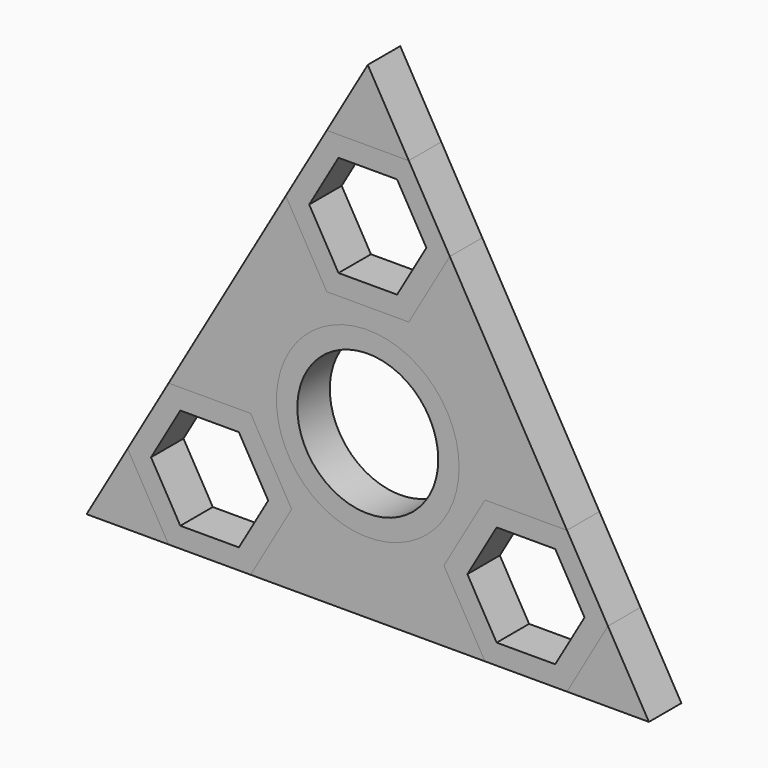
from build123d import *

# Parameters (mm, degrees)
F0_R     = 14.2875
F0_R_2   = 11.0236
F2_DEPTH = 6.35
F1_R     = 14.2875


with BuildPart() as f2:
    # F0 (on Front) → F2 (new body)
    with BuildSketch(Plane.XZ):
        Circle(F0_R)
        Circle(F0_R_2, mode=Mode.SUBTRACT)
    extrude(amount=F2_DEPTH)


with BuildPart() as f2b:
    # F0 (on Front) → F2, piece 2 (new body)
    with BuildSketch(Plane.XZ):
        Polygon((-6.4158048664, 17.4625), (6.4158048664, 17.4625), (12.8316097327, 28.575), (6.4158048664, 39.6875), (-6.4158048664, 39.6875), (-12.8316097327, 28.575), align=None)
        Polygon((9.1654355234, 28.575), (4.5827177617, 20.6375), (-4.5827177617, 20.6375), (-9.1654355234, 28.575), (-4.5827177617, 36.5125), (4.5827177617, 36.5125), align=None, mode=Mode.SUBTRACT)
    extrude(amount=F2_DEPTH)


with BuildPart() as f2c:
    # F0 (on Front) → F2, piece 3 (new body)
    with BuildSketch(Plane.XZ):
        Polygon((-18.3308710468, -3.175), (-31.1624807795, -3.175), (-37.5782856459, -14.2875), (-31.1624807795, -25.4), (-18.3308710468, -25.4), (-11.9150661804, -14.2875), align=None)
        Polygon((-29.3293936748, -6.35), (-20.1639581514, -6.35), (-15.5812403898, -14.2875), (-20.1639581514, -22.225), (-29.3293936748, -22.225), (-33.9121114365, -14.2875), align=None, mode=Mode.SUBTRACT)
    extrude(amount=F2_DEPTH)


with BuildPart() as f2d:
    # F0 (on Front) → F2, piece 4 (new body)
    with BuildSketch(Plane.XZ):
        Polygon((11.9150661804, -14.2875), (18.3308710468, -25.4), (31.1624807795, -25.4), (37.5782856459, -14.2875), (31.1624807795, -3.175), (18.3308710468, -3.175), align=None)
        Polygon((20.1639581514, -22.225), (15.5812403898, -14.2875), (20.1639581514, -6.35), (29.3293936748, -6.35), (33.9121114365, -14.2875), (29.3293936748, -22.225), align=None, mode=Mode.SUBTRACT)
    extrude(amount=F2_DEPTH)


with BuildPart() as f2e:
    # F1 (on Front) → F2, piece 5 (new body)
    with BuildSketch(Plane.XZ):
        Polygon((15.1229686272, -8.7312499764), (18.3308710468, -3.175), (24.7466759131, -3.175), (31.1624807795, -3.175), (12.8316097327, 28.575), (9.623707221, 23.018749864), (6.4158048664, 17.4625), (0, 17.4625), (-6.4158048664, 17.4625), (-9.6237072491, 23.0187499127), (-12.8316097327, 28.575), (-31.1624807795, -3.175), (-24.7466759131, -3.175), (-18.3308710468, -3.175), (-15.1229686466, -8.7312499429), (-11.9150661804, -14.2875), (-15.1229686921, -19.843750136), (-18.3308710468, -25.4), (18.3308710468, -25.4), (15.1229687517, -19.8437502392), (11.9150661804, -14.2875), align=None)
        Circle(F1_R, mode=Mode.SUBTRACT)
    extrude(amount=F2_DEPTH)


with BuildPart() as f2f:
    # F1 (on Front) → F2, piece 6 (new body)
    with BuildSketch(Plane.XZ):
        Polygon((0, 39.6875), (6.4158048664, 39.6875), (0, 50.8), (-6.4158048664, 39.6875), align=None)
    extrude(amount=F2_DEPTH)


with BuildPart() as f2g:
    # F1 (on Front) → F2, piece 7 (new body)
    with BuildSketch(Plane.XZ):
        Polygon((43.9894807795, -25.4), (37.5782856459, -14.2875), (34.3703831623, -19.8437500873), (31.1624807795, -25.4), align=None)
    extrude(amount=F2_DEPTH)


with BuildPart() as f2h:
    # F1 (on Front) → F2, piece 8 (new body)
    with BuildSketch(Plane.XZ):
        Polygon((-31.1624807795, -25.4), (-34.3703830746, -19.8437502392), (-37.5782856459, -14.2875), (-43.9940905122, -25.4), align=None)
    extrude(amount=F2_DEPTH)


solid = Compound([f2.part, f2b.part, f2c.part, f2d.part, f2e.part, f2f.part, f2g.part, f2h.part])
